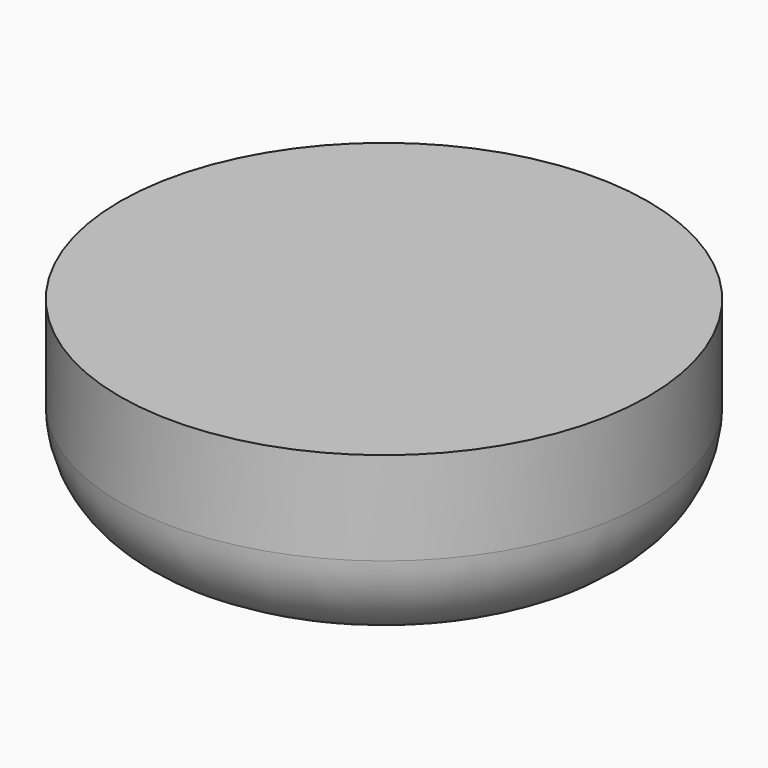
from build123d import *

# Parameters (mm, degrees)
F0_R     = 3.601361
F1_DEPTH = 2.54
F2_R     = 1.27


with BuildPart() as f1:
    # F0 (on Top) → F1 (new body)
    with BuildSketch(Plane.XY):
        Circle(F0_R)
    extrude(amount=-F1_DEPTH)

    # F2
    f2_edges = [f1.edges().sort_by_distance(p)[0] for p in [
        (-3.601361, 0, -2.54),
    ]]
    fillet(f2_edges, radius=F2_R)


solid = f1.part
